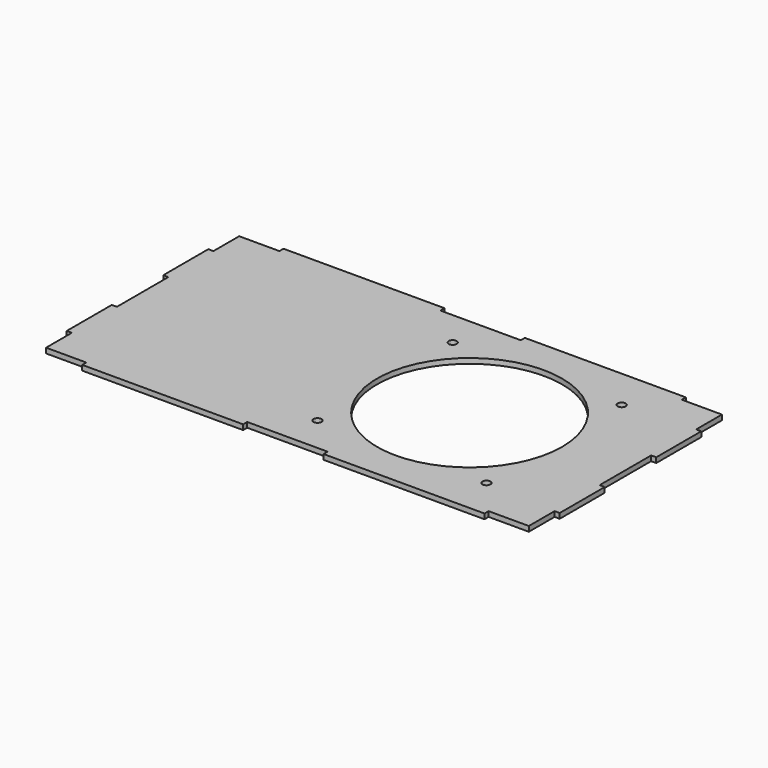
from build123d import *

# Parameters (mm, degrees)
F1_DEPTH = 3.175
F2_R     = 57.5
F2_R_2   = 2.5
F3_DEPTH = 3.176


with BuildPart() as f1:
    # F0 (on Top) → F1 (new body)
    with BuildSketch(Plane.XY):
        Polygon((125, 0), (150, 0), (175, 0), (175, -3.175), (275, -3.175), (275, 0), (300, 0), (300, 20), (303.175, 20), (303.175, 55), (300, 55), (300, 95), (303.175, 95), (303.175, 130), (300, 130), (300, 150), (275, 150), (275, 153.175), (175, 153.175), (175, 150), (150, 150), (125, 150), (125, 153.175), (25, 153.175), (25, 150), (0, 150), (0, 130), (-3.175, 130), (-3.175, 95), (0, 95), (0, 55), (-3.175, 55), (-3.175, 20), (0, 20), (0, 0), (25, 0), (25, -3.175), (125, -3.175), align=None)
    extrude(amount=F1_DEPTH)

    # F2 (on face) → F3 (cut, through all)
    with BuildSketch(Plane.XY.offset(3.175)):
        with Locations((203.175, 75)):
            Circle(F2_R)
        with Locations((150.675, 127.5)):
            Circle(F2_R_2)
        with Locations((150.675, 22.5)):
            Circle(F2_R_2)
        with Locations((255.675, 127.5)):
            Circle(F2_R_2)
        with Locations((255.675, 22.5)):
            Circle(F2_R_2)
    extrude(amount=-F3_DEPTH, mode=Mode.SUBTRACT)


solid = f1.part
